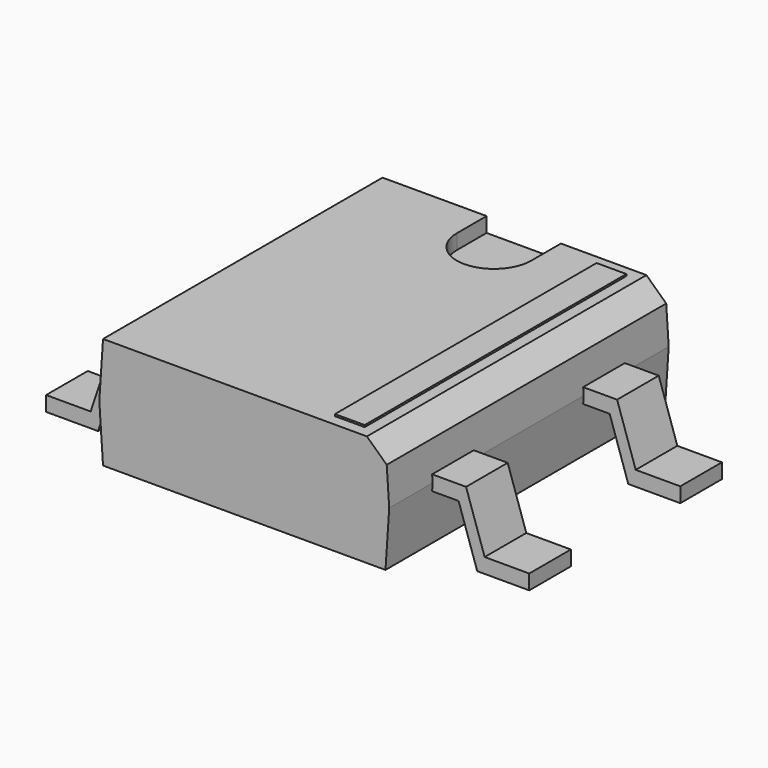
from build123d import *

# Parameters (mm, degrees)
PAD_DEPTH    = 2.35
CHAMFER_SIZE = 0.25
POCKET_DEPTH = 0.2
PAD003_DEPTH = 0.35
PAD002_DEPTH = 0.35
SKETCH005_W  = 0.4
SKETCH005_H  = 4.4
PAD004_DEPTH = 0.075


with BuildPart() as pocket:
    # Sketch → Pad (new body, symmetric)
    with BuildSketch(Plane.XZ):
        Polygon((-1.9, 0.1), (1.9, 0.1), (1.95, 0.85), (1.9, 1.6), (-1.9, 1.6), (-1.95, 0.85), align=None)
    extrude(amount=PAD_DEPTH, both=True)

    # Chamfer
    chamfer_edges = [pocket.edges().sort_by_distance(p)[0] for p in [
        (1.9, 0, 1.6),
    ]]
    chamfer(chamfer_edges, length=CHAMFER_SIZE)

    # Sketch004 → Pocket (cut)
    with BuildSketch(Plane(origin=(0, 0, 1.6), x_dir=(-1, 0, 0), z_dir=(0, 0, 1))):
        with BuildLine():
            ThreePointArc((0.5, -1.85), (0, -1.35), (-0.5, -1.85))
            Line((-0.5, -1.85), (-0.5, -2.35))
            Line((-0.5, -2.35), (0.5, -2.35))
            Line((0.5, -2.35), (0.5, -1.85))
        make_face()
    extrude(amount=-POCKET_DEPTH, mode=Mode.SUBTRACT)


with BuildPart() as pad003:
    # Sketch003 → Pad003 (new body, symmetric)
    with BuildSketch(Plane.XZ.offset(-1.27)):
        Polygon((-3.25, 0), (-2.55, 0), (-2.3, 0.75), (2.3, 0.75), (2.55, 0), (3.25, 0), (3.25, 0.2), (2.65, 0.2), (2.4, 0.95), (-2.4, 0.95), (-2.65, 0.2), (-3.25, 0.2), align=None)
    extrude(amount=PAD003_DEPTH, both=True)


with BuildPart() as pad002:
    # Sketch002 → Pad002 (new body, symmetric)
    with BuildSketch(Plane.XZ.offset(1.27)):
        Polygon((-3.25, 0), (-2.55, 0), (-2.3, 0.75), (2.3, 0.75), (2.55, 0), (3.25, 0), (3.25, 0.2), (2.65, 0.2), (2.4, 0.95), (-2.4, 0.95), (-2.65, 0.2), (-3.25, 0.2), align=None)
    extrude(amount=PAD002_DEPTH, both=True)


with BuildPart() as to_269aa:
    # Sketch005 → Pad004 (new body)
    with BuildSketch(Plane.XY.offset(1.55)):
        with Locations((1.3, 0)):
            Rectangle(SKETCH005_W, SKETCH005_H)
    extrude(amount=PAD004_DEPTH)

    add(pocket.part)
    add(pad003.part)
    add(pad002.part)


solid = to_269aa.part
